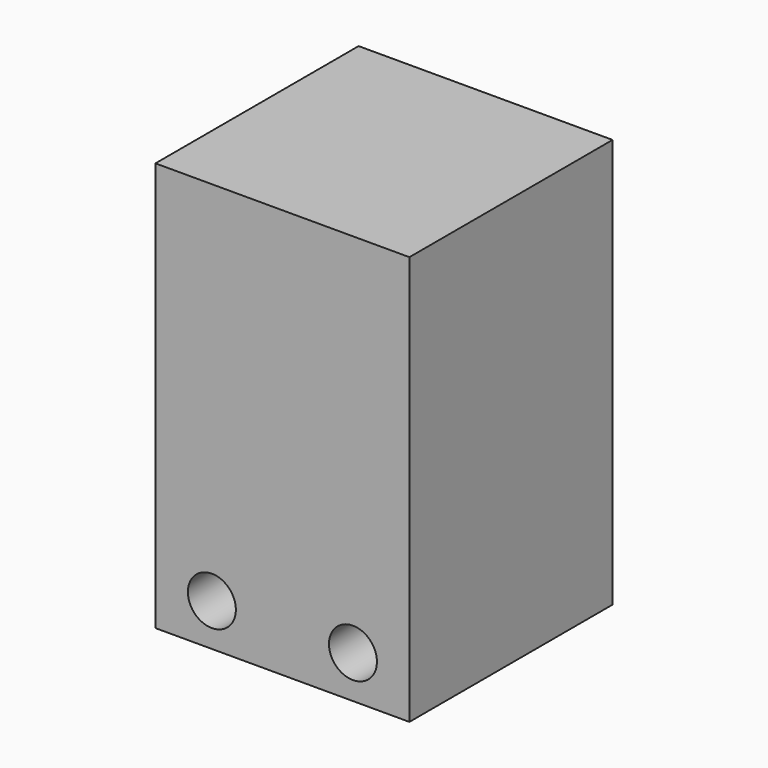
from build123d import *

# Parameters (mm, degrees)
F0_W     = 18
F0_H     = 29
F1_DEPTH = 18
F2_D     = 3.4


with BuildPart() as f1:
    # F0 (on Front) → F1 (new body)
    with BuildSketch(Plane.XZ):
        with Locations((0, -2.3659545546)):
            Rectangle(F0_W, F0_H)
    extrude(amount=F1_DEPTH)

    # F2 (through all)
    with Locations(Plane(origin=(0, 0, 0), x_dir=(1, 0, 0), z_dir=(0, 1, 0))):
        with Locations((-5, 13.8659545546), (5, 13.8586984458)):
            Hole(F2_D / 2)


solid = f1.part
